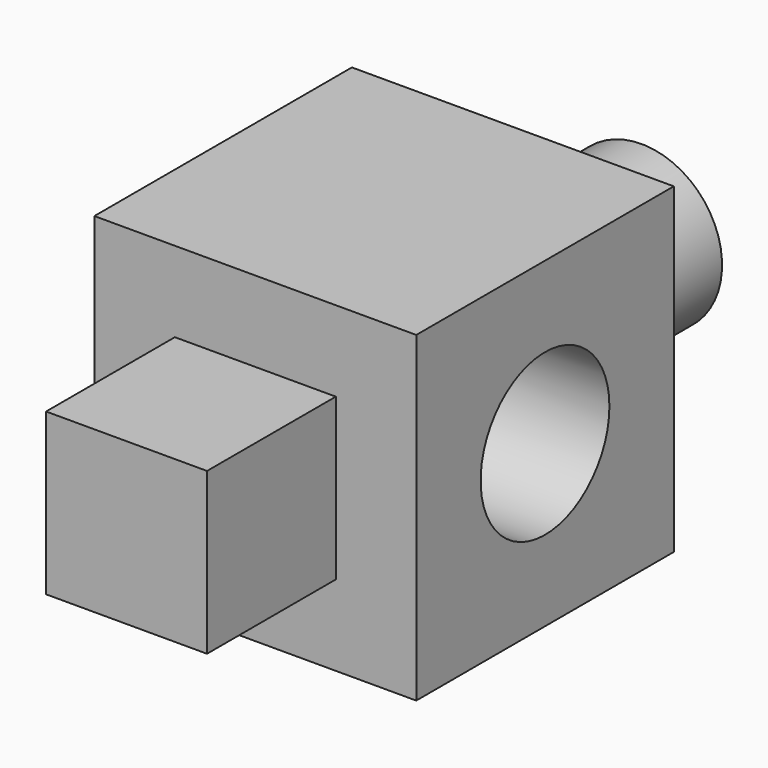
from build123d import *

# Parameters (mm, degrees)
F0_W     = 50.8
F0_H     = 50.8
F1_DEPTH = 50.8
F2_W     = 25.4
F2_H     = 25.4
F3_DEPTH = 25.4
F4_R     = 12.7
F5_DEPTH = 25.4
F6_R     = 12.7
F7_DEPTH = 25.4


with BuildPart() as f1:
    # F0 (on Front) → F1 (new body)
    with BuildSketch(Plane.XZ):
        with Locations((-31.411681, 22.886025)):
            Rectangle(F0_W, F0_H)
    extrude(amount=F1_DEPTH)

    # F2 (on face) → F3 (join)
    with BuildSketch(Plane.XZ.offset(50.8)):
        with Locations((-31.411681, 22.886025)):
            Rectangle(F2_W, F2_H)
    extrude(amount=F3_DEPTH)

    # F4 (on face) → F5 (cut)
    with BuildSketch(Plane.YZ.offset(-6.011681)):
        with Locations((-25.4, 22.886025)):
            Circle(F4_R)
    extrude(amount=-F5_DEPTH, mode=Mode.SUBTRACT)

    # F6 (on face) → F7 (join)
    with BuildSketch(Plane(origin=(0, 0, 0), x_dir=(-1, 0, 0), z_dir=(0, 1, 0))):
        with Locations((31.411681, 22.886025)):
            Circle(F6_R)
    extrude(amount=F7_DEPTH)


solid = f1.part
